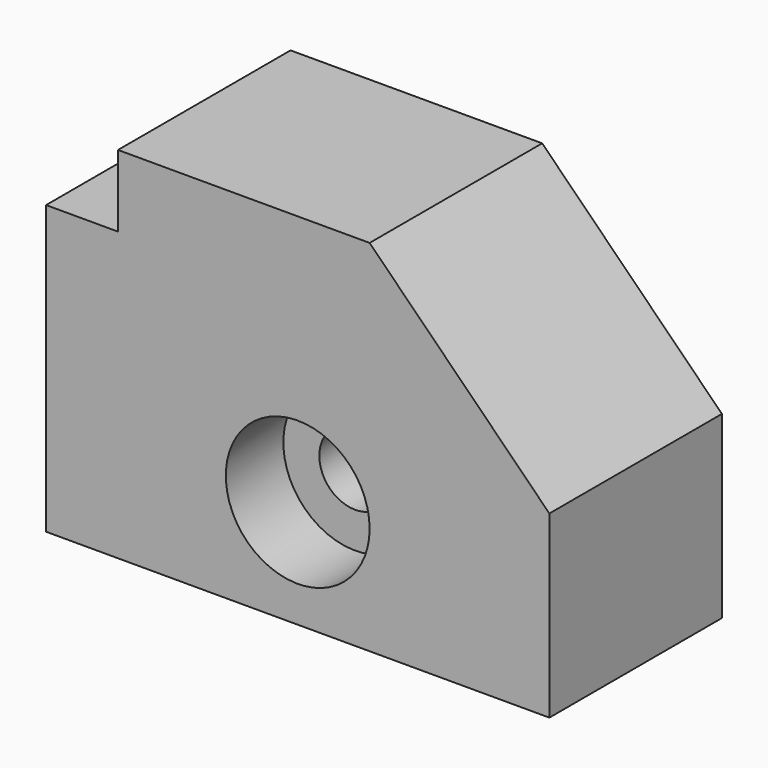
from build123d import *

# Parameters (mm, degrees)
F1_DEPTH = 38.1
F2_R     = 12.7
F3_DEPTH = 12.7
F4_R     = 6.35
F5_DEPTH = 25.401


with BuildPart() as f1:
    # F0 (on Front) → F1 (new body)
    with BuildSketch(Plane.XZ):
        Polygon((0, 50.8), (0, 0), (88.9, 0), (88.9, 31.75), (57.15, 63.5), (12.7, 63.5), (12.7, 50.8), align=None)
    extrude(amount=F1_DEPTH)

    # F2 (on face) → F3 (cut)
    with BuildSketch(Plane.XZ.offset(38.1)):
        with Locations((44.45, 19.05)):
            Circle(F2_R)
    extrude(amount=-F3_DEPTH, mode=Mode.SUBTRACT)

    # F4 (on face) → F5 (cut, through all)
    with BuildSketch(Plane.XZ.offset(25.4)):
        with Locations((44.45, 19.05)):
            Circle(F4_R)
    extrude(amount=-F5_DEPTH, mode=Mode.SUBTRACT)


solid = f1.part
